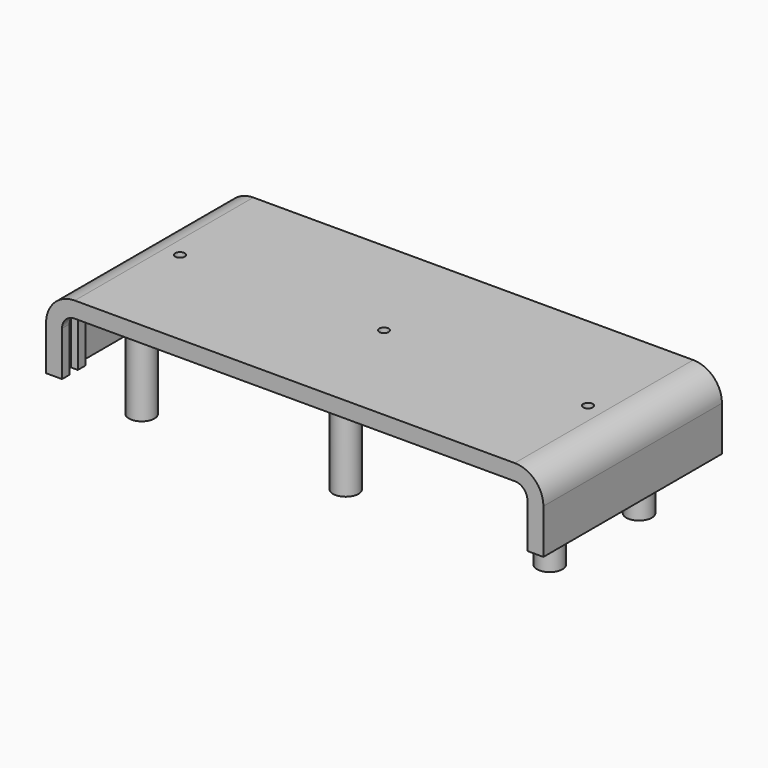
from build123d import *

# Parameters (mm, degrees)
SKETCH002_R     = 1.5
POCKET_DEPTH    = 23.001
SKETCH003_R     = 4
PAD_DEPTH       = 35
SKETCH004_R     = 1
POCKET001_DEPTH = 10


with BuildPart() as part:
    # AdditivePipe: sweep along a path in Sketch001
    with BuildLine(Plane.XZ) as additivepipe_path:
        Line((-73, -18), (-73, -4))
        ThreePointArc((-73, -4), (-71.828427, -1.171573), (-69, 0))
        Line((-69, 0), (0, 0))
        Line((0, 0), (69, 0))
        ThreePointArc((69, 0), (71.828427, -1.171573), (73, -4))
        Line((73, -4), (73, -18))
    # Sketch → AdditivePipe (sweep)
    with BuildSketch(Plane.YZ):
        Polygon((0, 5), (70, 5), (70, 0), (67, 0), (67, 2.2), (63.8, 2.2), (63.8, 0), (60.8, 0), (60.8, 2.2), (9.2, 2.2), (9.2, 0), (6.2, 0), (6.2, 2.2), (3, 2.2), (3, 0), (0, 0), align=None)
    sweep(path=additivepipe_path.line)

    # Sketch002 (on Face35 of AdditivePipe) → Pocket (cut, through all)
    with BuildSketch(Plane(origin=(0, 0, 5), x_dir=(0, -1, 0), z_dir=(0, 0, 1))):
        with Locations((-35, -64)):
            Circle(SKETCH002_R)
        with Locations((-35, 64)):
            Circle(SKETCH002_R)
        with Locations((-35, 0)):
            Circle(SKETCH002_R)
    extrude(amount=-POCKET_DEPTH, mode=Mode.SUBTRACT)

    # Sketch003 (on Face43 of Pocket) → Pad (join)
    with BuildSketch(Plane.YX.offset(-2.2)):
        with Locations((20, 64)):
            Circle(SKETCH003_R)
        with Locations((55, 64)):
            Circle(SKETCH003_R)
        with Locations((20, 0)):
            Circle(SKETCH003_R)
        with Locations((55, 0)):
            Circle(SKETCH003_R)
        with Locations((20, -64)):
            Circle(SKETCH003_R)
        with Locations((55, -64)):
            Circle(SKETCH003_R)
    extrude(amount=PAD_DEPTH)

    # Sketch004 (on Face88 of Pad) → Pocket001 (cut)
    with BuildSketch(Plane.YX.offset(32.8)):
        with Locations((20, 64)):
            Circle(SKETCH004_R)
        with Locations((55, 64)):
            Circle(SKETCH004_R)
        with Locations((20, 0)):
            Circle(SKETCH004_R)
        with Locations((55, 0)):
            Circle(SKETCH004_R)
        with Locations((20, -64)):
            Circle(SKETCH004_R)
        with Locations((55, -64)):
            Circle(SKETCH004_R)
    extrude(amount=-POCKET001_DEPTH, mode=Mode.SUBTRACT)


solid = part.part
